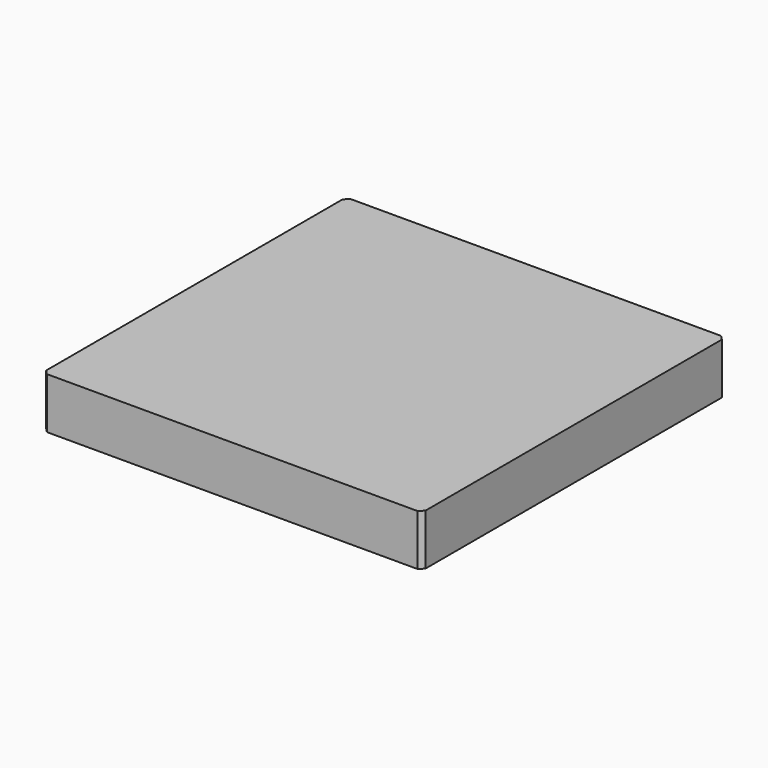
from build123d import *

# Parameters (mm, degrees)
F0_W     = 260
F0_H     = 260
F1_DEPTH = 35
F2_SIZE  = 3
F3_R     = 60
F4_DEPTH = 15
F5_R     = 59.7511721788
F5_R_2   = 30
F6_DEPTH = 20
F7_DEPTH = 7
F8_DEPTH = 33.17


with BuildPart() as f1:
    # F0 (on Top) → F1 (new body)
    with BuildSketch(Plane.XY):
        with Locations((-12.1650248766, 56.3838380575)):
            Rectangle(F0_W, F0_H)
    extrude(amount=F1_DEPTH)

    # F2
    f2_edges = [f1.edges().sort_by_distance(p)[0] for p in [
        (117.834975, -73.616162, 17.5),
        (117.834975, 186.383838, 17.5),
        (-142.165025, 186.383838, 17.5),
        (-142.165025, -73.616162, 17.5),
    ]]
    chamfer(f2_edges, length=F2_SIZE)

    # F3 (on face) → F4 (join)
    with BuildSketch(Plane(origin=(0, 0, 0), x_dir=(1, 0, 0), z_dir=(0, 0, -1))):
        with Locations((-12.1650248766, -56.3838380575)):
            Circle(F3_R)
    extrude(amount=F4_DEPTH)

    # F5 (on face) → F6 (join)
    with BuildSketch(Plane(origin=(0, 0, -15), x_dir=(1, 0, 0), z_dir=(0, 0, -1))):
        with Locations((-12.1650248766, -56.3838380575)):
            Circle(F5_R)
        with Locations((-12.1650248766, -56.3838380575)):
            Circle(F5_R_2, mode=Mode.SUBTRACT)
    extrude(amount=F6_DEPTH)

    # F7 (add): a face of the model
    f7_faces = [f1.faces().sort_by_distance(p)[0] for p in [
        (-12.1650248766, 56.3838380575, -15),
    ]]
    extrude(f7_faces, amount=F7_DEPTH)

    # F8 (add): a face of the model
    f8_faces = [f1.faces().sort_by_distance(p)[0] for p in [
        (-12.1650248766, 56.3838380575, -22),
    ]]
    extrude(f8_faces, amount=F8_DEPTH)


solid = f1.part
